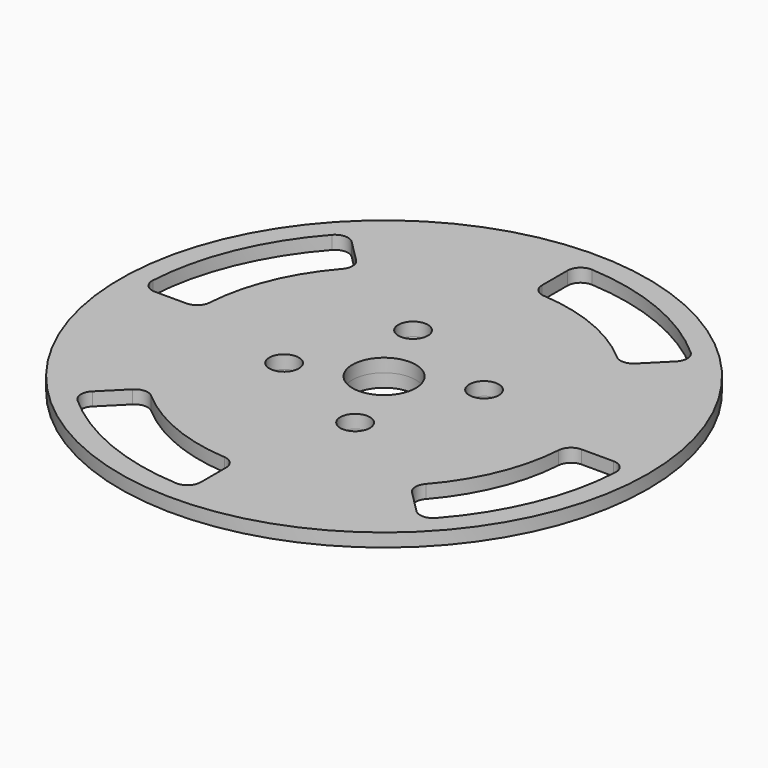
from build123d import *

# Parameters (mm, degrees)
F0_R     = 31.75
F0_R_2   = 19.05
F0_R_3   = 1.778
F0_R_4   = 3.81
F1_DEPTH = 1.6002
F2_R     = 1.5875
F3_DEPTH = 1.5875


with BuildPart() as f1:
    # F0 (on Top) → F1 (new body)
    with BuildSketch(Plane.XY):
        Circle(F0_R)
        with BuildLine():
            ThreePointArc((-15.715448, -15.715448), (-8.505139, -20.533223), (0, -22.225))
            Line((0, -22.225), (0, -29.21))
            ThreePointArc((0, -29.21), (-11.178183, -26.986521), (-20.654589, -20.654589))
            Line((-20.654589, -20.654589), (-15.715448, -15.715448))
        make_face(mode=Mode.SUBTRACT)
        with BuildLine():
            ThreePointArc((15.715448, -15.715448), (20.533223, -8.505139), (22.225, 0))
            Line((22.225, 0), (29.21, 0))
            ThreePointArc((29.21, 0), (26.986521, -11.178183), (20.654589, -20.654589))
            Line((20.654589, -20.654589), (15.715448, -15.715448))
        make_face(mode=Mode.SUBTRACT)
        with BuildLine():
            ThreePointArc((-15.715448, 15.715448), (-20.533223, 8.505139), (-22.225, 0))
            Line((-22.225, 0), (-29.21, 0))
            ThreePointArc((-29.21, 0), (-26.986521, 11.178183), (-20.654589, 20.654589))
            Line((-20.654589, 20.654589), (-15.715448, 15.715448))
        make_face(mode=Mode.SUBTRACT)
        Circle(F0_R_2, mode=Mode.SUBTRACT)
        with BuildLine():
            ThreePointArc((15.715448, 15.715448), (8.505139, 20.533223), (0, 22.225))
            Line((0, 22.225), (0, 29.21))
            ThreePointArc((0, 29.21), (11.178183, 26.986521), (20.654589, 20.654589))
            Line((20.654589, 20.654589), (15.715448, 15.715448))
        make_face(mode=Mode.SUBTRACT)
        Circle(F0_R_2)
        with Locations((-9.034618, -3.742261)):
            Circle(F0_R_3, mode=Mode.SUBTRACT)
        with Locations((3.742261, -9.034618)):
            Circle(F0_R_3, mode=Mode.SUBTRACT)
        with Locations((-3.742261, 9.034618)):
            Circle(F0_R_3, mode=Mode.SUBTRACT)
        Circle(F0_R_4, mode=Mode.SUBTRACT)
        with Locations((9.034618, 3.742261)):
            Circle(F0_R_3, mode=Mode.SUBTRACT)
    extrude(amount=F1_DEPTH)

    # F2
    f2_edges = [f1.edges().sort_by_distance(p)[0] for p in [
        (-20.654589, 20.654589, 0.8001),
        (0, 29.21, 0.8001),
        (22.225, 0, 0.8001),
        (-15.715448, -15.715448, 0.8001),
        (-29.21, 0, 0.8001),
        (-20.654589, -20.654589, 0.8001),
        (15.715448, -15.715448, 0.8001),
        (0, 22.225, 0.8001),
        (15.715448, 15.715448, 0.8001),
        (20.654589, -20.654589, 0.8001),
        (0, -29.21, 0.8001),
        (-22.225, 0, 0.8001),
        (20.654589, 20.654589, 0.8001),
        (29.21, 0, 0.8001),
        (0, -22.225, 0.8001),
        (-15.715448, 15.715448, 0.8001),
    ]]
    fillet(f2_edges, radius=F2_R)


with BuildPart() as f3:
    # F0 (on Top) → F3 (new body)
    with BuildSketch(Plane.XY):
        Circle(F0_R_2)
        with Locations((-9.034618, -3.742261)):
            Circle(F0_R_3, mode=Mode.SUBTRACT)
        with Locations((3.742261, -9.034618)):
            Circle(F0_R_3, mode=Mode.SUBTRACT)
        with Locations((-3.742261, 9.034618)):
            Circle(F0_R_3, mode=Mode.SUBTRACT)
        Circle(F0_R_4, mode=Mode.SUBTRACT)
        with Locations((9.034618, 3.742261)):
            Circle(F0_R_3, mode=Mode.SUBTRACT)
    extrude(amount=-F3_DEPTH)


solid = Compound([f1.part, f3.part])
